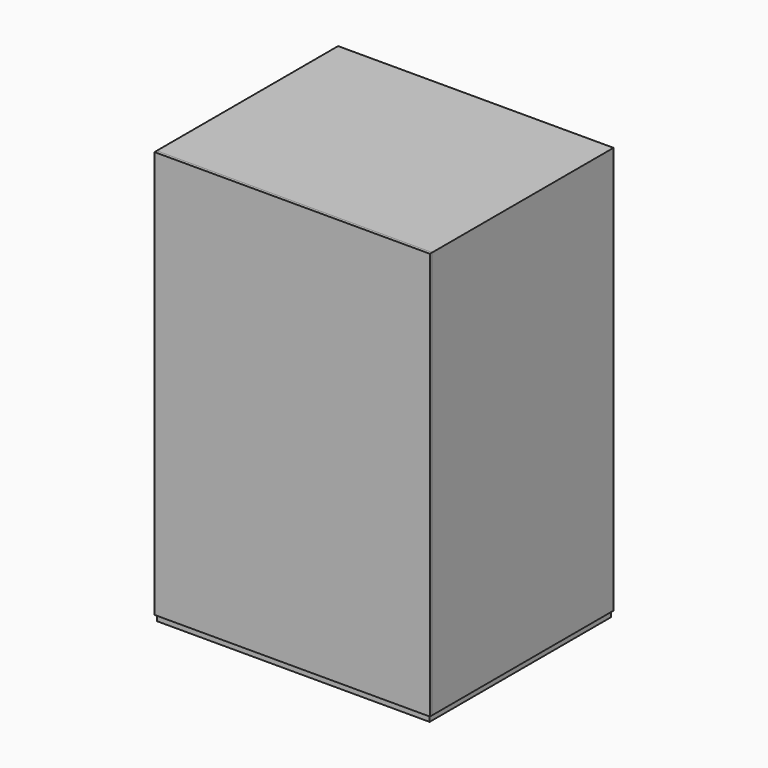
from build123d import *

# Parameters (mm, degrees)
F0_W     = 603.25
F0_H     = 501.65
F1_DEPTH = 12.7
F2_W     = 603.25
F2_H     = 498.475
F3_DEPTH = 901.7
F2_H_2   = 3.175
F4_DEPTH = 901.7
F5_R     = 9.525
F6_DEPTH = 3.175


with BuildPart() as f1:
    # F0 (on Top) → F1 (new body)
    with BuildSketch(Plane.XY):
        Rectangle(F0_W, F0_H)
    extrude(amount=F1_DEPTH)

    # F2 (on face) → F3 (join)
    with BuildSketch(Plane.XY.offset(12.7)):
        with Locations((0, 1.5875)):
            Rectangle(F2_W, F2_H)
        Polygon((304.8, 254), (-304.8, 254), (-304.8, -247.65), (-301.625, -247.65), (-301.625, 250.825), (301.625, 250.825), (301.625, -247.65), (304.8, -247.65), align=None)
    extrude(amount=F3_DEPTH)


with BuildPart() as f4:
    # F2 (on face) → F4 (new body)
    with BuildSketch(Plane.XY.offset(12.7)):
        with Locations((0, -249.2375)):
            Rectangle(F2_W, F2_H_2)
        Polygon((-301.625, -247.65), (-304.8, -247.65), (-304.8, -254), (304.8, -254), (304.8, -247.65), (301.625, -247.65), (301.625, -250.825), (-301.625, -250.825), align=None)
    extrude(amount=F4_DEPTH)


with BuildPart() as f6:
    # F5 (on face) → F6 (new body)
    with BuildSketch(Plane(origin=(0, 0, 0), x_dir=(1, 0, 0), z_dir=(0, 0, -1))):
        with Locations((-279.4, 228.6)):
            Circle(F5_R)
    extrude(amount=F6_DEPTH)


with BuildPart() as f6b:
    # F5 (on face) → F6, piece 2 (new body)
    with BuildSketch(Plane(origin=(0, 0, 0), x_dir=(1, 0, 0), z_dir=(0, 0, -1))):
        with Locations((-279.4, -228.6)):
            Circle(F5_R)
    extrude(amount=F6_DEPTH)


with BuildPart() as f6c:
    # F5 (on face) → F6, piece 3 (new body)
    with BuildSketch(Plane(origin=(0, 0, 0), x_dir=(1, 0, 0), z_dir=(0, 0, -1))):
        with Locations((279.4, 228.6)):
            Circle(F5_R)
    extrude(amount=F6_DEPTH)


with BuildPart() as f6d:
    # F5 (on face) → F6, piece 4 (new body)
    with BuildSketch(Plane(origin=(0, 0, 0), x_dir=(1, 0, 0), z_dir=(0, 0, -1))):
        with Locations((279.4, -228.6)):
            Circle(F5_R)
    extrude(amount=F6_DEPTH)


solid = Compound([f1.part, f4.part, f6.part, f6b.part, f6c.part, f6d.part])
